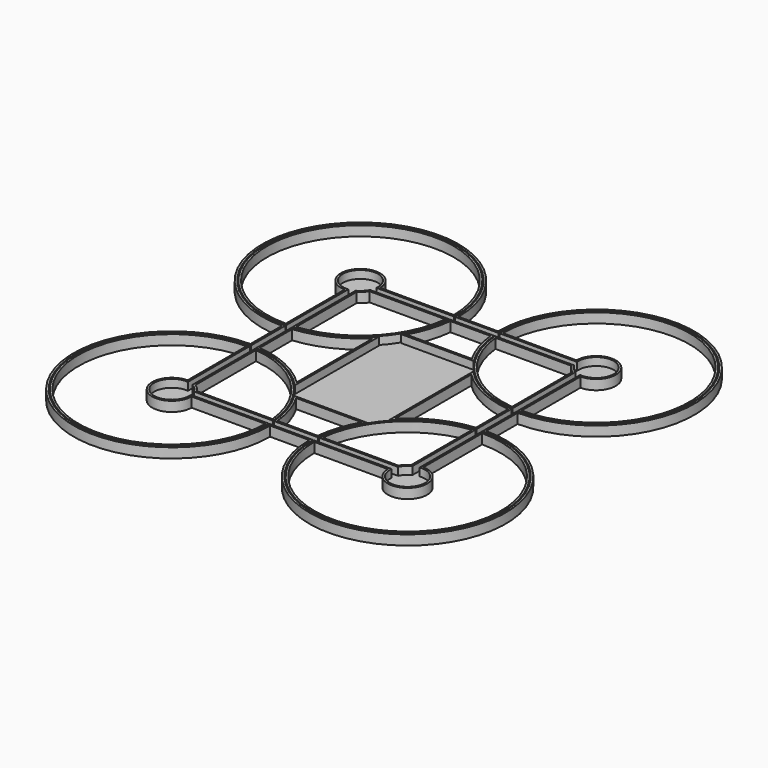
from build123d import *

# Parameters (mm, degrees)
F1_DEPTH = 5
F2_T     = -1


with BuildPart() as f1:
    # F0 (on Top) → F1 (new body)
    with BuildSketch(Plane.XY):
        with BuildLine():
            ThreePointArc((-10, 60), (-95.3553390593, 95.3553390593), (-60, 10))
            Line((-60, 10), (-60, -10))
            ThreePointArc((-60, -10), (-95.3553390593, -95.3553390593), (-10, -60))
            Line((-10, -60), (10, -60))
            ThreePointArc((10, -60), (95.3553390593, -95.3553390593), (60, -10))
            Line((60, -10), (60, 10))
            ThreePointArc((60, 10), (95.3553390593, 95.3553390593), (10, 60))
            Line((10, 60), (-10, 60))
        make_face()
        with BuildLine():
            Line((-50, -60), (-12.5, -60))
            ThreePointArc((-12.5, -60), (-93.5875721064, -93.5875721064), (-60, -12.5))
            Line((-60, -12.5), (-60, -50))
            ThreePointArc((-60, -50), (-67.0710678119, -67.0710678119), (-50, -60))
        make_face(mode=Mode.SUBTRACT)
        with BuildLine():
            ThreePointArc((-55, -12.7638909308), (-26.4124278936, -26.4124278936), (-12.7638909308, -55))
            Line((-12.7638909308, -55), (-51.3397459622, -55))
            ThreePointArc((-51.3397459622, -55), (-52.9289321881, -52.9289321881), (-55, -51.3397459622))
            Line((-55, -51.3397459622), (-55, -12.7638909308))
        make_face(mode=Mode.SUBTRACT)
        with BuildLine():
            Line((12.5, -60), (50, -60))
            ThreePointArc((50, -60), (67.0710678119, -67.0710678119), (60, -50))
            Line((60, -50), (60, -12.5))
            ThreePointArc((60, -12.5), (93.5875721064, -93.5875721064), (12.5, -60))
        make_face(mode=Mode.SUBTRACT)
        with BuildLine():
            Line((-16.6987298108, -35), (16.6987298108, -35))
            ThreePointArc((16.6987298108, -35), (12.4121286857, -44.6574283846), (10.2506281447, -55))
            Line((10.2506281447, -55), (-10.2506281447, -55))
            ThreePointArc((-10.2506281447, -55), (-12.4121286857, -44.6574283846), (-16.6987298108, -35))
        make_face(mode=Mode.SUBTRACT)
        with BuildLine():
            ThreePointArc((12.7638909308, -55), (26.4124278936, -26.4124278936), (55, -12.7638909308))
            Line((55, -12.7638909308), (55, -51.3397459622))
            ThreePointArc((55, -51.3397459622), (52.9289321881, -52.9289321881), (51.3397459622, -55))
            Line((51.3397459622, -55), (12.7638909308, -55))
        make_face(mode=Mode.SUBTRACT)
        with BuildLine():
            Line((55, 10.2506281447), (55, -10.2506281447))
            ThreePointArc((55, -10.2506281447), (38.8033952288, -14.7153011915), (25, -24.2928578573))
            Line((25, -24.2928578573), (25, 24.2928578573))
            ThreePointArc((25, 24.2928578573), (38.8033952288, 14.7153011915), (55, 10.2506281447))
        make_face(mode=Mode.SUBTRACT)
        with BuildLine():
            Line((-25, 24.2928578573), (-25, -24.2928578573))
            ThreePointArc((-25, -24.2928578573), (-38.8033952288, -14.7153011915), (-55, -10.2506281447))
            Line((-55, -10.2506281447), (-55, 10.2506281447))
            ThreePointArc((-55, 10.2506281447), (-38.8033952288, 14.7153011915), (-25, 24.2928578573))
        make_face(mode=Mode.SUBTRACT)
        with BuildLine():
            ThreePointArc((-12.7638909308, 55), (-26.4124278936, 26.4124278936), (-55, 12.7638909308))
            Line((-55, 12.7638909308), (-55, 51.3397459622))
            ThreePointArc((-55, 51.3397459622), (-52.9289321881, 52.9289321881), (-51.3397459622, 55))
            Line((-51.3397459622, 55), (-12.7638909308, 55))
        make_face(mode=Mode.SUBTRACT)
        with BuildLine():
            Line((16.6987298108, 35), (-16.6987298108, 35))
            ThreePointArc((-16.6987298108, 35), (-12.4121286857, 44.6574283846), (-10.2506281447, 55))
            Line((-10.2506281447, 55), (10.2506281447, 55))
            ThreePointArc((10.2506281447, 55), (12.4121286857, 44.6574283846), (16.6987298108, 35))
        make_face(mode=Mode.SUBTRACT)
        with BuildLine():
            ThreePointArc((-50, 60), (-67.0710678119, 67.0710678119), (-60, 50))
            Line((-60, 50), (-60, 12.5))
            ThreePointArc((-60, 12.5), (-93.5875721064, 93.5875721064), (-12.5, 60))
            Line((-12.5, 60), (-50, 60))
        make_face(mode=Mode.SUBTRACT)
        with BuildLine():
            ThreePointArc((55, 12.7638909308), (26.4124278936, 26.4124278936), (12.7638909308, 55))
            Line((12.7638909308, 55), (51.3397459622, 55))
            ThreePointArc((51.3397459622, 55), (52.9289321881, 52.9289321881), (55, 51.3397459622))
            Line((55, 51.3397459622), (55, 12.7638909308))
        make_face(mode=Mode.SUBTRACT)
        with BuildLine():
            ThreePointArc((60, 50), (67.0710678119, 67.0710678119), (50, 60))
            Line((50, 60), (12.5, 60))
            ThreePointArc((12.5, 60), (93.5875721064, 93.5875721064), (60, 12.5))
            Line((60, 12.5), (60, 50))
        make_face(mode=Mode.SUBTRACT)
        with BuildLine():
            ThreePointArc((-10, 60), (-95.3553390593, 95.3553390593), (-60, 10))
            Line((-60, 10), (-60, -10))
            ThreePointArc((-60, -10), (-95.3553390593, -95.3553390593), (-10, -60))
            Line((-10, -60), (10, -60))
            ThreePointArc((10, -60), (95.3553390593, -95.3553390593), (60, -10))
            Line((60, -10), (60, 10))
            ThreePointArc((60, 10), (95.3553390593, 95.3553390593), (10, 60))
            Line((10, 60), (-10, 60))
        make_face()
        with BuildLine():
            Line((-50, -60), (-12.5, -60))
            ThreePointArc((-12.5, -60), (-93.5875721064, -93.5875721064), (-60, -12.5))
            Line((-60, -12.5), (-60, -50))
            ThreePointArc((-60, -50), (-67.0710678119, -67.0710678119), (-50, -60))
        make_face(mode=Mode.SUBTRACT)
        with BuildLine():
            ThreePointArc((-55, -12.7638909308), (-26.4124278936, -26.4124278936), (-12.7638909308, -55))
            Line((-12.7638909308, -55), (-51.3397459622, -55))
            ThreePointArc((-51.3397459622, -55), (-52.9289321881, -52.9289321881), (-55, -51.3397459622))
            Line((-55, -51.3397459622), (-55, -12.7638909308))
        make_face(mode=Mode.SUBTRACT)
        with BuildLine():
            Line((12.5, -60), (50, -60))
            ThreePointArc((50, -60), (67.0710678119, -67.0710678119), (60, -50))
            Line((60, -50), (60, -12.5))
            ThreePointArc((60, -12.5), (93.5875721064, -93.5875721064), (12.5, -60))
        make_face(mode=Mode.SUBTRACT)
        with BuildLine():
            Line((-16.6987298108, -35), (16.6987298108, -35))
            ThreePointArc((16.6987298108, -35), (12.4121286857, -44.6574283846), (10.2506281447, -55))
            Line((10.2506281447, -55), (-10.2506281447, -55))
            ThreePointArc((-10.2506281447, -55), (-12.4121286857, -44.6574283846), (-16.6987298108, -35))
        make_face(mode=Mode.SUBTRACT)
        with BuildLine():
            ThreePointArc((12.7638909308, -55), (26.4124278936, -26.4124278936), (55, -12.7638909308))
            Line((55, -12.7638909308), (55, -51.3397459622))
            ThreePointArc((55, -51.3397459622), (52.9289321881, -52.9289321881), (51.3397459622, -55))
            Line((51.3397459622, -55), (12.7638909308, -55))
        make_face(mode=Mode.SUBTRACT)
        with BuildLine():
            Line((55, 10.2506281447), (55, -10.2506281447))
            ThreePointArc((55, -10.2506281447), (38.8033952288, -14.7153011915), (25, -24.2928578573))
            Line((25, -24.2928578573), (25, 24.2928578573))
            ThreePointArc((25, 24.2928578573), (38.8033952288, 14.7153011915), (55, 10.2506281447))
        make_face(mode=Mode.SUBTRACT)
        with BuildLine():
            Line((-25, 24.2928578573), (-25, -24.2928578573))
            ThreePointArc((-25, -24.2928578573), (-38.8033952288, -14.7153011915), (-55, -10.2506281447))
            Line((-55, -10.2506281447), (-55, 10.2506281447))
            ThreePointArc((-55, 10.2506281447), (-38.8033952288, 14.7153011915), (-25, 24.2928578573))
        make_face(mode=Mode.SUBTRACT)
        with BuildLine():
            ThreePointArc((-12.7638909308, 55), (-26.4124278936, 26.4124278936), (-55, 12.7638909308))
            Line((-55, 12.7638909308), (-55, 51.3397459622))
            ThreePointArc((-55, 51.3397459622), (-52.9289321881, 52.9289321881), (-51.3397459622, 55))
            Line((-51.3397459622, 55), (-12.7638909308, 55))
        make_face(mode=Mode.SUBTRACT)
        with BuildLine():
            Line((16.6987298108, 35), (-16.6987298108, 35))
            ThreePointArc((-16.6987298108, 35), (-12.4121286857, 44.6574283846), (-10.2506281447, 55))
            Line((-10.2506281447, 55), (10.2506281447, 55))
            ThreePointArc((10.2506281447, 55), (12.4121286857, 44.6574283846), (16.6987298108, 35))
        make_face(mode=Mode.SUBTRACT)
        with BuildLine():
            ThreePointArc((-50, 60), (-67.0710678119, 67.0710678119), (-60, 50))
            Line((-60, 50), (-60, 12.5))
            ThreePointArc((-60, 12.5), (-93.5875721064, 93.5875721064), (-12.5, 60))
            Line((-12.5, 60), (-50, 60))
        make_face(mode=Mode.SUBTRACT)
        with BuildLine():
            ThreePointArc((55, 12.7638909308), (26.4124278936, 26.4124278936), (12.7638909308, 55))
            Line((12.7638909308, 55), (51.3397459622, 55))
            ThreePointArc((51.3397459622, 55), (52.9289321881, 52.9289321881), (55, 51.3397459622))
            Line((55, 51.3397459622), (55, 12.7638909308))
        make_face(mode=Mode.SUBTRACT)
        with BuildLine():
            ThreePointArc((60, 50), (67.0710678119, 67.0710678119), (50, 60))
            Line((50, 60), (12.5, 60))
            ThreePointArc((12.5, 60), (93.5875721064, 93.5875721064), (60, 12.5))
            Line((60, 12.5), (60, 50))
        make_face(mode=Mode.SUBTRACT)
    extrude(amount=F1_DEPTH)

    # F2
    f2_openings = [f1.faces().sort_by_distance(p)[0] for p in [
        (0, 0, 5),
    ]]
    offset(amount=F2_T, openings=f2_openings, kind=Kind.INTERSECTION)


solid = f1.part
